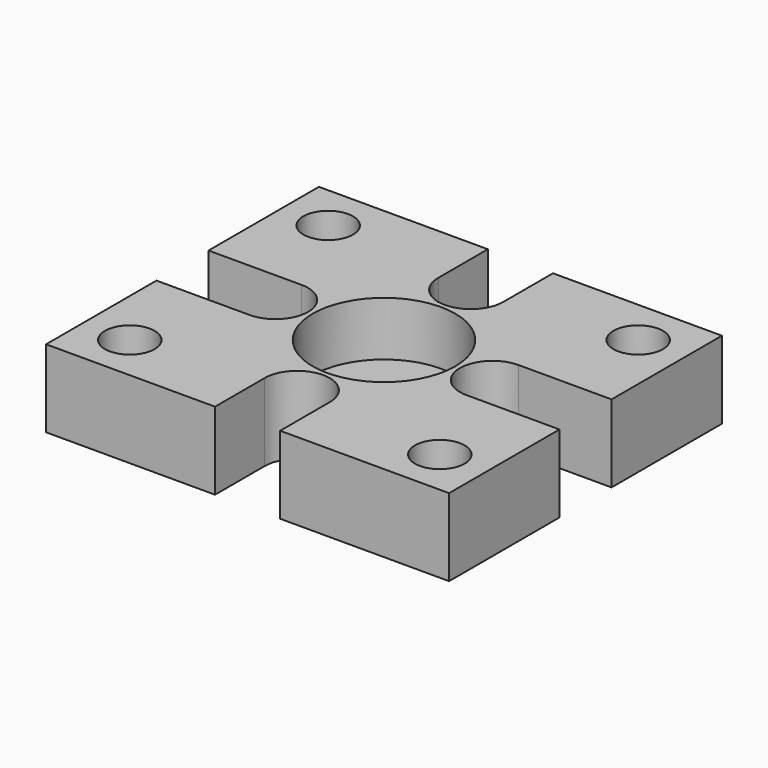
from build123d import *

# Parameters (mm, degrees)
CYLINDER974_R             = 4.6
CYLINDER974_DEPTH         = 3.5
BOX564_W                  = 4.2
BOX564_H                  = 10
BOX564_DEPTH              = 5
BOX562_W                  = 10
BOX562_H                  = 4.2
BOX562_DEPTH              = 5
BOX563_W                  = 4.2
BOX563_H                  = 10
BOX563_DEPTH              = 5
BOX561_W                  = 10
BOX561_H                  = 4.2
BOX561_DEPTH              = 5
CYLINDER073_R             = 2.1
CYLINDER073_DEPTH         = 15
CYLINDER074_R             = 2.1
CYLINDER074_DEPTH         = 15
CYLINDER075_R             = 2.1
CYLINDER075_DEPTH         = 15
CYLINDER076_R             = 2.1
CYLINDER076_DEPTH         = 15
FUSION038_PLACEMENT_ANGLE = 90
CYLINDER961_R             = 1.6
CYLINDER961_DEPTH         = 15
CYLINDER962_R             = 1.6
CYLINDER962_DEPTH         = 15
CYLINDER963_R             = 1.6
CYLINDER963_DEPTH         = 15
CYLINDER959_R             = 1.6
CYLINDER959_DEPTH         = 15
CYLINDER960_R             = 1.6
CYLINDER960_DEPTH         = 15
BOX560_W                  = 26
BOX560_H                  = 22
BOX560_DEPTH              = 5


with BuildPart() as cylinder974:
    # Cylinder974 → Cylinder974 (new body)
    with BuildSketch(Plane.XY.offset(-3.5)):
        Circle(CYLINDER974_R)
    extrude(amount=CYLINDER974_DEPTH)


with BuildPart() as cube755:
    # Box564 → Box564 (new body)
    with BuildSketch(Plane(origin=(-2.1, -17, -2), x_dir=(1, 0, 0), z_dir=(0, 0, 1))):
        with Locations((2.1, 5)):
            Rectangle(BOX564_W, BOX564_H)
    extrude(amount=BOX564_DEPTH)


with BuildPart() as cube753:
    # Box562 → Box562 (new body)
    with BuildSketch(Plane(origin=(-17, -2.1, -2), x_dir=(1, 0, 0), z_dir=(0, 0, 1))):
        with Locations((5, 2.1)):
            Rectangle(BOX562_W, BOX562_H)
    extrude(amount=BOX562_DEPTH)


with BuildPart() as cube754:
    # Box563 → Box563 (new body)
    with BuildSketch(Plane(origin=(-2.1, 7, -2), x_dir=(1, 0, 0), z_dir=(0, 0, 1))):
        with Locations((2.1, 5)):
            Rectangle(BOX563_W, BOX563_H)
    extrude(amount=BOX563_DEPTH)


with BuildPart() as fusion107:
    # Box561 → Box561 (new body)
    with BuildSketch(Plane(origin=(7, -2.1, -2), x_dir=(1, 0, 0), z_dir=(0, 0, 1))):
        with Locations((5, 2.1)):
            Rectangle(BOX561_W, BOX561_H)
    extrude(amount=BOX561_DEPTH)

    # Fusion107: union Cube755, Cube753, Cube754
    add(cube755.part)
    add(cube753.part)
    add(cube754.part)


with BuildPart() as cylinder073:
    # Cylinder073 → Cylinder073 (new body)
    with BuildSketch(Plane(origin=(7, 0, 0), x_dir=(1, 0, 0), z_dir=(0, 0, 1))):
        Circle(CYLINDER073_R)
    extrude(amount=CYLINDER073_DEPTH)


with BuildPart() as fusion037:
    # Cylinder074 → Cylinder074 (new body)
    with BuildSketch(Plane(origin=(-7, 0, 0), x_dir=(1, 0, 0), z_dir=(0, 0, 1))):
        Circle(CYLINDER074_R)
    extrude(amount=CYLINDER074_DEPTH)

    # Fusion037: union Cylinder073
    add(cylinder073.part)


with BuildPart() as cylinder075:
    # Cylinder075 → Cylinder075 (new body)
    with BuildSketch(Plane(origin=(7, 0, 0), x_dir=(1, 0, 0), z_dir=(0, 0, 1))):
        Circle(CYLINDER075_R)
    extrude(amount=CYLINDER075_DEPTH)


with BuildPart() as fusion039:
    # Cylinder076 → Cylinder076 (new body)
    with BuildSketch(Plane(origin=(-7, 0, 0), x_dir=(1, 0, 0), z_dir=(0, 0, 1))):
        Circle(CYLINDER076_R)
    extrude(amount=CYLINDER076_DEPTH)

    # Fusion038: union Cylinder075
    add(cylinder075.part)


with BuildPart() as fusion039_1:
    # Fusion038 placement: moved
    add(fusion039.part.rotate(Axis((0, 0, 0), (0, 0, 1)), FUSION038_PLACEMENT_ANGLE))

    # Fusion039: union Fusion037
    add(fusion037.part)


with BuildPart() as fusion039_2:
    # Fusion039 placement: moved
    add(fusion039_1.part.moved(Location((0, 0, -3))))


with BuildPart() as cylinder961:
    # Cylinder961 → Cylinder961 (new body)
    with BuildSketch(Plane(origin=(-10, -8, -2), x_dir=(1, 0, 0), z_dir=(0, 0, 1))):
        Circle(CYLINDER961_R)
    extrude(amount=CYLINDER961_DEPTH)


with BuildPart() as cylinder962:
    # Cylinder962 → Cylinder962 (new body)
    with BuildSketch(Plane(origin=(10, 8, -2), x_dir=(1, 0, 0), z_dir=(0, 0, 1))):
        Circle(CYLINDER962_R)
    extrude(amount=CYLINDER962_DEPTH)


with BuildPart() as cylinder963:
    # Cylinder963 → Cylinder963 (new body)
    with BuildSketch(Plane(origin=(10, -8, -2), x_dir=(1, 0, 0), z_dir=(0, 0, 1))):
        Circle(CYLINDER963_R)
    extrude(amount=CYLINDER963_DEPTH)


with BuildPart() as cylinder959:
    # Cylinder959 → Cylinder959 (new body)
    with BuildSketch(Plane.XY.offset(-2)):
        Circle(CYLINDER959_R)
    extrude(amount=CYLINDER959_DEPTH)


with BuildPart() as fusion105:
    # Cylinder960 → Cylinder960 (new body)
    with BuildSketch(Plane(origin=(-10, 8, -2), x_dir=(1, 0, 0), z_dir=(0, 0, 1))):
        Circle(CYLINDER960_R)
    extrude(amount=CYLINDER960_DEPTH)

    # Fusion105: union Cylinder961, Cylinder962, Cylinder963, Cylinder959
    add(cylinder961.part)
    add(cylinder962.part)
    add(cylinder963.part)
    add(cylinder959.part)


with BuildPart() as diff_lock_planetary_sup_holes:
    # Box560 → Box560 (new body)
    with BuildSketch(Plane(origin=(-13, -11, -2), x_dir=(1, 0, 0), z_dir=(0, 0, 1))):
        with Locations((13, 11)):
            Rectangle(BOX560_W, BOX560_H)
    extrude(amount=BOX560_DEPTH)

    # Cut014050: cut Fusion105
    add(fusion105.part, mode=Mode.SUBTRACT)

    # Cut014051: cut Fusion039
    add(fusion039_2.part, mode=Mode.SUBTRACT)

    # Cut014055: cut Fusion107
    add(fusion107.part, mode=Mode.SUBTRACT)


with BuildPart() as diff_lock_planetary_sup_holes_1:
    # Cut014055 placement: moved
    add(diff_lock_planetary_sup_holes.part.moved(Location((0, 0, -3))))

    # Cut014056: cut Cylinder974
    add(cylinder974.part, mode=Mode.SUBTRACT)


solid = diff_lock_planetary_sup_holes_1.part
